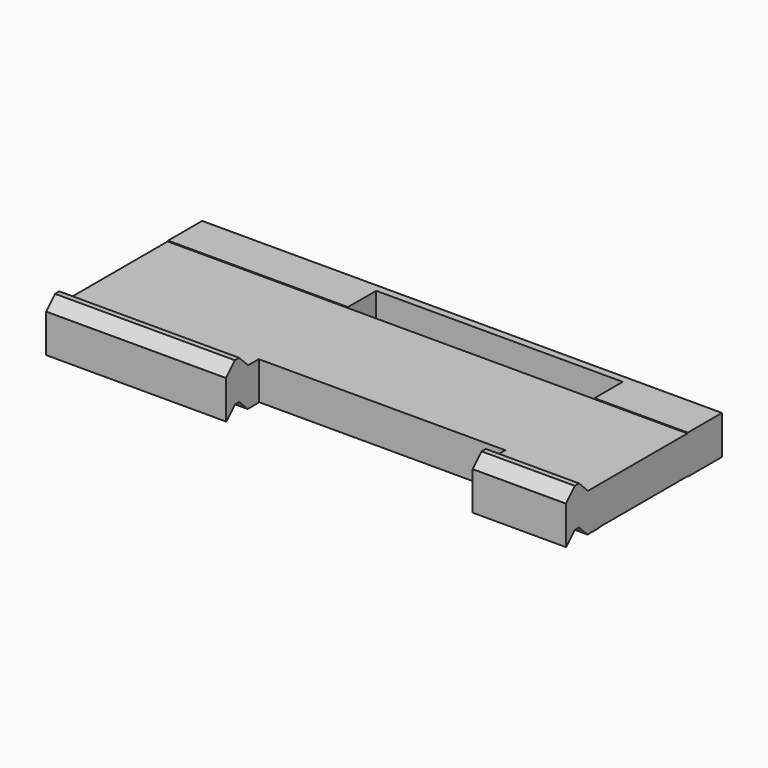
from build123d import *

# Parameters (mm, degrees)
F1_DEPTH      = 247.65
F2_W          = 117.475
F2_H          = 23.997068
F2_H_2        = 17.060095
F3_DEPTH      = 25.4
F3_DEPTH_BACK = -25.4


with BuildPart() as f1:
    # F0 (on Right) → F1 (new body)
    with BuildSketch(Plane.YZ):
        Polygon((0, 0), (5.037905, 5.037905), (7.577905, 5.037905), (12.61581, 0), (18.96581, 0), (19.21981, 0.254), (72.093905, 0.254), (72.347905, 0), (92.667905, 0), (92.667905, 18.49882), (72.347905, 18.49882), (72.093905, 18.24482), (12.86981, 18.24482), (7.577905, 23.536725), (5.037905, 23.536725), (-0.254, 18.24482), (-0.296095, 18.24482), (-0.296095, 0), align=None)
    extrude(amount=F1_DEPTH)

    # F2 (on face) → F3 (cut, two sides)
    with BuildSketch(Plane(origin=(0, 0, 0.254), x_dir=(1, 0, 0), z_dir=(0, 0, -1))) as f3_sk:
        with Locations((144.4625, -7.221276)):
            Rectangle(F2_W, F2_H)
        with Locations((144.4625, -80.623953)):
            Rectangle(F2_W, F2_H_2)
    extrude(amount=-F3_DEPTH, mode=Mode.SUBTRACT)
    extrude(f3_sk.sketch, amount=-F3_DEPTH_BACK, mode=Mode.SUBTRACT)


solid = f1.part
